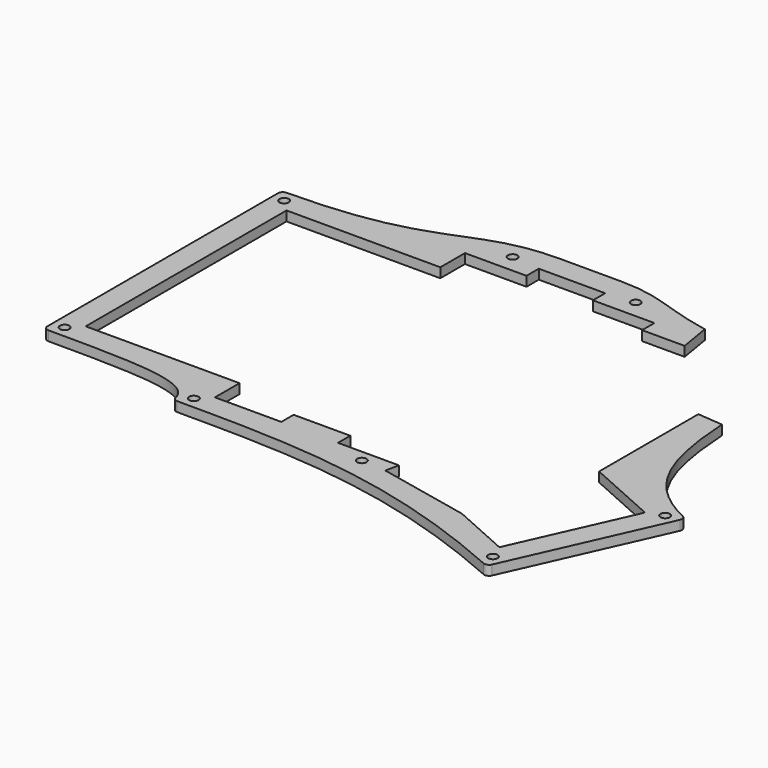
from build123d import *

# Parameters (mm, degrees)
PAD006_DEPTH    = 3
POCKET009_DEPTH = 5
SKETCH041_R     = 1.45
POCKET019_DEPTH = 16
POCKET025_DEPTH = 17
FILLET004_R     = 1.5


with BuildPart() as part:
    # Sketch026 → Pad006 (new body)
    with BuildSketch(Plane.XY):
        with BuildLine():
            Line((85.725, 98.4875), (66.675, 98.4875))
            add(Edge.make_bspline(
                [(-8, 84.2), (39.625, 84.2), (39.625, 98.4875), (66.675, 98.4875)],
                knots=[0, 0, 0, 0, 1, 1, 1, 1], degree=3))
            Line((-8, 84.2), (-8, -8))
            add(Edge.make_bspline(
                [(39.625, -17.525), (39.625, -8), (20.575, -8), (-8, -8)],
                knots=[0, 0, 0, 0, 1, 1, 1, 1], degree=3))
            add(Edge.make_bspline(
                [(153.231854, -38.154949), (107.082107, -17.525), (76.2, -17.525), (39.625, -17.525)],
                knots=[0, 0, 0, 0, 1, 1, 1, 1], degree=3))
            Line((153.231854, -38.154949), (175.310198, 11.234895))
            add(Edge.make_bspline(
                [(150.875, 88.9625), (150.875, 42.8625), (150.875, 22.157965), (175.310198, 11.234895)],
                knots=[0, 0, 0, 0, 1, 1, 1, 1], degree=3))
            add(Edge.make_bspline(
                [(85.725, 98.4875), (104.775, 98.4875), (104.775, 88.9625), (150.875, 88.9625)],
                knots=[0, 0, 0, 0, 1, 1, 1, 1], degree=3))
        make_face()
    extrude(amount=PAD006_DEPTH)

    # Sketch027 → Pocket009 (cut)
    with BuildSketch(Plane(origin=(0, 0, 0), x_dir=(1, 0, 0), z_dir=(0, 0, -1))):
        Polygon((-0.75, 0.75), (-0.75, -76.95), (46.875, -76.95), (46.875, -86.475), (65.925, -86.475), (65.925, -91.2375), (86.475, -91.2375), (86.475, -86.475), (105.525, -86.475), (105.525, -81.7125), (143.625, -81.7125), (143.625, -17.457464), (165.732668, -7.574851), (149.57181, 28.577419), (131.568158, 20.529392), (102.96164, 14.448889), (103.848827, 10.275), (84.975, 10.275), (84.975, 5.5125), (67.425, 5.5125), (67.425, 10.275), (46.875, 10.275), (46.875, 0.75), align=None)
    extrude(amount=-POCKET009_DEPTH, mode=Mode.SUBTRACT)

    # Sketch041 → Pocket019 (cut)
    with BuildSketch(Plane.XY):
        with Locations((-4.375, -4.375)):
            Circle(SKETCH041_R)
        with Locations((-4.375, 80.575)):
            Circle(SKETCH041_R)
        with Locations((151.401832, -33.366184)):
            Circle(SKETCH041_R)
        with Locations((170.521433, 9.404873)):
            Circle(SKETCH041_R)
        with Locations((147.25, 85.3375)):
            Circle(SKETCH041_R)
        with Locations((43.25, -13.9)):
            Circle(SKETCH041_R)
        with Locations((57.15, 92.085)):
            Circle(SKETCH041_R)
        with Locations((95.25, 92.085)):
            Circle(SKETCH041_R)
        with Locations((95.25, -13.9)):
            Circle(SKETCH041_R)
    extrude(amount=POCKET019_DEPTH, mode=Mode.SUBTRACT)

    # Sketch053 → Pocket025 (cut)
    with BuildSketch(Plane.XY):
        Polygon((118.825, 80.9625), (116.825, 92.9625), (166.907578, 98.346489), (154.875, 54.9125), (142.875, 55.9125), align=None)
    extrude(amount=POCKET025_DEPTH, mode=Mode.SUBTRACT)

    # Fillet004
    fillet004_edges = [part.edges().sort_by_distance(p)[0] for p in [
        (-8, 84.2, 1.5),
        (-8, -8, 1.5),
        (39.625, -17.525, 1.5),
        (153.231854, -38.154949, 1.5),
        (175.310198, 11.234895, 1.5),
    ]]
    fillet(fillet004_edges, radius=FILLET004_R)


with BuildPart() as part_1:
    # Body005 placement: moved
    add(part.part.moved(Location((0, 0, -6))))


solid = part_1.part
